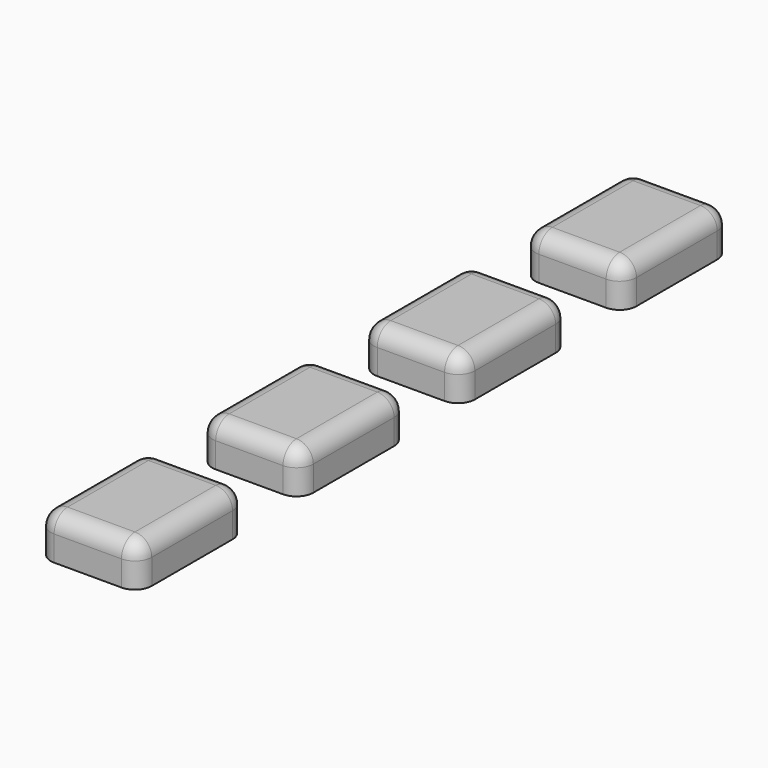
from build123d import *

# Parameters (mm, degrees)
F1_DEPTH = 2.5
F2_R     = 1
F2_2_R   = 1
F2_3_R   = 1
F2_4_R   = 1


with BuildPart() as f1:
    # F0 (on Top) → F1 (new body)
    with BuildSketch(Plane.XY):
        with BuildLine():
            Line((-1, 40.603768607), (-5, 40.603768607))
            ThreePointArc((-5, 40.603768607), (-5.7071067812, 40.3108753882), (-6, 39.603768607))
            Line((-6, 39.603768607), (-6, 33.603768607))
            ThreePointArc((-6, 33.603768607), (-5.7071067812, 32.8966618258), (-5, 32.603768607))
            Line((-5, 32.603768607), (-1, 32.603768607))
            ThreePointArc((-1, 32.603768607), (-0.2928932188, 32.8966618258), (0, 33.603768607))
            Line((0, 33.603768607), (0, 39.603768607))
            ThreePointArc((0, 39.603768607), (-0.2928932188, 40.3108753882), (-1, 40.603768607))
        make_face()
    extrude(amount=F1_DEPTH)

    # F2
    f2_edges = [f1.edges().sort_by_distance(p)[0] for p in [
        (-0.292893, 40.310875, 2.5),
        (-3, 40.603769, 2.5),
        (-5.707107, 40.310875, 2.5),
        (-6, 36.603769, 2.5),
        (-5.707107, 32.896662, 2.5),
        (-3, 32.603769, 2.5),
        (-0.292893, 32.896662, 2.5),
        (0, 36.603769, 2.5),
    ]]
    fillet(f2_edges, radius=F2_R)


with BuildPart() as f1b:
    # F0 (on Top) → F1, piece 2 (new body)
    with BuildSketch(Plane.XY):
        with BuildLine():
            Line((-1, 28.603768607), (-5, 28.603768607))
            ThreePointArc((-5, 28.603768607), (-5.7071067812, 28.3108753882), (-6, 27.603768607))
            Line((-6, 27.603768607), (-6, 21.603768607))
            ThreePointArc((-6, 21.603768607), (-5.7071067812, 20.8966618258), (-5, 20.603768607))
            Line((-5, 20.603768607), (-1, 20.603768607))
            ThreePointArc((-1, 20.603768607), (-0.2928932188, 20.8966618258), (0, 21.603768607))
            Line((0, 21.603768607), (0, 27.603768607))
            ThreePointArc((0, 27.603768607), (-0.2928932188, 28.3108753882), (-1, 28.603768607))
        make_face()
    extrude(amount=F1_DEPTH)

    # F2#2
    f2_2_edges = [f1b.edges().sort_by_distance(p)[0] for p in [
        (-3, 28.603769, 2.5),
        (-5.707107, 28.310875, 2.5),
        (-6, 24.603769, 2.5),
        (-5.707107, 20.896662, 2.5),
        (-3, 20.603769, 2.5),
        (-0.292893, 20.896662, 2.5),
        (0, 24.603769, 2.5),
        (-0.292893, 28.310875, 2.5),
    ]]
    fillet(f2_2_edges, radius=F2_2_R)


with BuildPart() as f1c:
    # F0 (on Top) → F1, piece 3 (new body)
    with BuildSketch(Plane.XY):
        with BuildLine():
            Line((-1, 16.603768607), (-5, 16.603768607))
            ThreePointArc((-5, 16.603768607), (-5.7071067812, 16.3108753882), (-6, 15.603768607))
            Line((-6, 15.603768607), (-6, 9.603768607))
            ThreePointArc((-6, 9.603768607), (-5.7071067812, 8.8966618258), (-5, 8.603768607))
            Line((-5, 8.603768607), (-1, 8.603768607))
            ThreePointArc((-1, 8.603768607), (-0.2928932188, 8.8966618258), (0, 9.603768607))
            Line((0, 9.603768607), (0, 15.603768607))
            ThreePointArc((0, 15.603768607), (-0.2928932188, 16.3108753882), (-1, 16.603768607))
        make_face()
    extrude(amount=F1_DEPTH)

    # F2#3
    f2_3_edges = [f1c.edges().sort_by_distance(p)[0] for p in [
        (-3, 16.603769, 2.5),
        (-5.707107, 16.310875, 2.5),
        (-6, 12.603769, 2.5),
        (-5.707107, 8.896662, 2.5),
        (-3, 8.603769, 2.5),
        (-0.292893, 8.896662, 2.5),
        (0, 12.603769, 2.5),
        (-0.292893, 16.310875, 2.5),
    ]]
    fillet(f2_3_edges, radius=F2_3_R)


with BuildPart() as f1d:
    # F0 (on Top) → F1, piece 4 (new body)
    with BuildSketch(Plane.XY):
        with BuildLine():
            Line((-1, 4.603768607), (-5, 4.603768607))
            ThreePointArc((-5, 4.603768607), (-5.7071067812, 4.3108753882), (-6, 3.603768607))
            Line((-6, 3.603768607), (-6, -2.396231393))
            ThreePointArc((-6, -2.396231393), (-5.7071067812, -3.1033381742), (-5, -3.396231393))
            Line((-5, -3.396231393), (-1, -3.396231393))
            ThreePointArc((-1, -3.396231393), (-0.2928932188, -3.1033381742), (0, -2.396231393))
            Line((0, -2.396231393), (0, 3.603768607))
            ThreePointArc((0, 3.603768607), (-0.2928932188, 4.3108753882), (-1, 4.603768607))
        make_face()
    extrude(amount=F1_DEPTH)

    # F2#4
    f2_4_edges = [f1d.edges().sort_by_distance(p)[0] for p in [
        (-3, 4.603769, 2.5),
        (-5.707107, 4.310875, 2.5),
        (-6, 0.603769, 2.5),
        (-5.707107, -3.103338, 2.5),
        (-3, -3.396231, 2.5),
        (-0.292893, -3.103338, 2.5),
        (0, 0.603769, 2.5),
        (-0.292893, 4.310875, 2.5),
    ]]
    fillet(f2_4_edges, radius=F2_4_R)


solid = Compound([f1.part, f1b.part, f1c.part, f1d.part])
